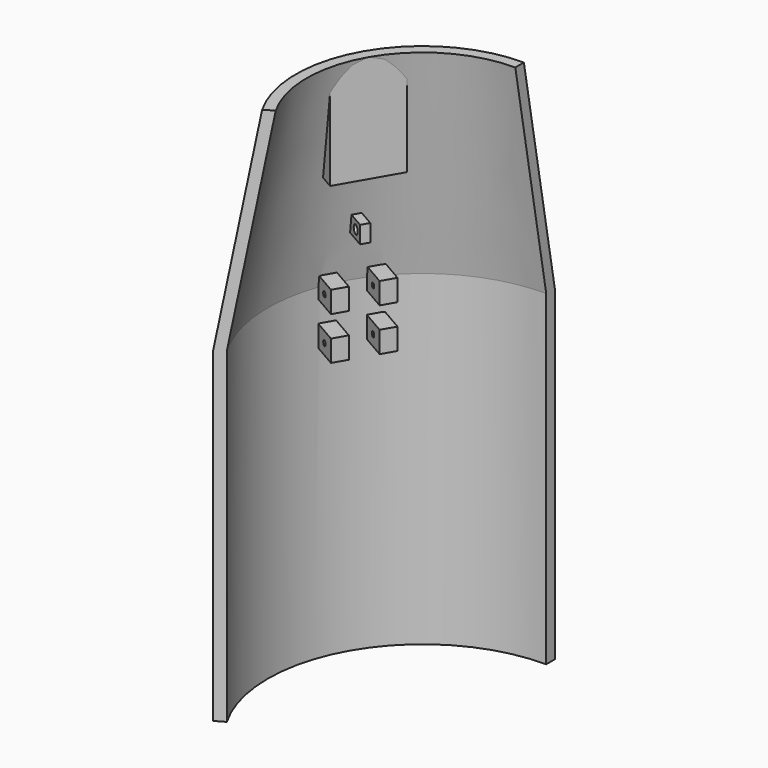
from build123d import *

# Parameters (mm, degrees)
F2_ANGLE  = 120
F5_DEPTH  = 7.5
F7_DEPTH  = 7.5
F11_R     = 0.6
F11_W     = 6.365
F11_H     = 5
F12_DEPTH = 3.5
F10_R     = 0.6
F10_W     = 6.365
F10_H     = 5
F13_DEPTH = 3.5
F4_R      = 1
F14_DEPTH = 1


with BuildPart() as f2:
    # F1 (on Right) → F2 (revolve)
    with BuildSketch(Plane.YZ):
        Polygon((38.5, 76), (29.5, 126), (27, 126), (36, 76), (36, 0), (38.5, 0), align=None)
    revolve(axis=Axis((0, 0, 63), (0, 0, 1)), revolution_arc=F2_ANGLE)

    # F11 (on offset) → F12 (join)
    with BuildSketch(Plane(origin=(1.5, 2.5980762114, 0), x_dir=(0.8660254038, -0.5, 0), z_dir=(-0.5, -0.8660254038, 0))):
        Polygon((-35.5, 73.5), (-29.135, 73.5), (-29.135, 78.5), (-35.075, 78.5), (-35.5, 76), align=None)
        with Locations((-32.4, 76)):
            Circle(F11_R, mode=Mode.SUBTRACT)
        with Locations((-32.3175, 66)):
            Rectangle(F11_W, F11_H)
        with Locations((-32.4, 66)):
            Circle(F11_R, mode=Mode.SUBTRACT)
    extrude(amount=-F12_DEPTH)

    # F10 (on offset) → F13 (join)
    with BuildSketch(Plane(origin=(-1.5, -2.5980762114, 0), x_dir=(0.8660254038, -0.5, 0), z_dir=(-0.5, -0.8660254038, 0))):
        Polygon((-35.5, 73.5), (-29.135, 73.5), (-29.135, 78.5), (-35.075, 78.5), (-35.5, 76), align=None)
        with Locations((-32.4, 76)):
            Circle(F10_R, mode=Mode.SUBTRACT)
        with Locations((-32.3175, 66)):
            Rectangle(F10_W, F10_H)
        with Locations((-32.4, 66)):
            Circle(F10_R, mode=Mode.SUBTRACT)
    extrude(amount=F13_DEPTH)


with BuildPart() as f5:
    # F4 (on line) → F5 (new body, symmetric)
    with BuildSketch(Plane(origin=(0, 0, 0), x_dir=(0.8660254038, -0.5, 0), z_dir=(-0.5, -0.8660254038, 0))):
        Polygon((-27, 101), (-27, 126), (-31.25, 101), align=None)
    extrude(amount=F5_DEPTH, both=True)


with BuildPart() as f7:
    # F4 (on line) → F7 (new body, symmetric)
    with BuildSketch(Plane(origin=(0, 0, 0), x_dir=(0.8660254038, -0.5, 0), z_dir=(-0.5, -0.8660254038, 0))):
        Polygon((-27, 101), (-27, 126), (-31.25, 101), align=None)
    extrude(amount=F7_DEPTH, both=True)


with BuildPart() as f14:
    # F4 (on line) → F14 (new body, symmetric)
    with BuildSketch(Plane(origin=(0, 0, 0), x_dir=(0.8660254038, -0.5, 0), z_dir=(-0.5, -0.8660254038, 0))):
        Polygon((-28.67, 91), (-32.95, 91), (-33.63, 87), (-28.67, 87), align=None)
        with Locations((-30.81, 89)):
            Circle(F4_R, mode=Mode.SUBTRACT)
    extrude(amount=F14_DEPTH, both=True)


solid = Compound([f2.part, f7.part, f14.part])
